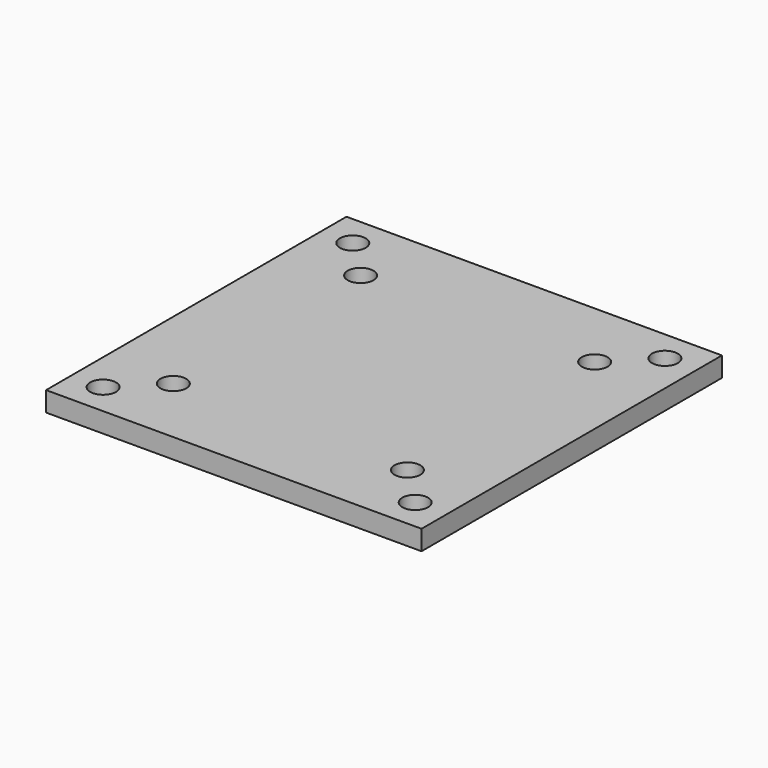
from build123d import *

# Parameters (mm, degrees)
F0_W     = 120.3
F0_H     = 120.3
F0_R     = 4.135455
F1_DEPTH = 6.35


with BuildPart() as f1:
    # F0 (on Top) → F1 (new body)
    with BuildSketch(Plane.XY):
        Rectangle(F0_W, F0_H)
        with Locations((-50, -50)):
            Circle(F0_R, mode=Mode.SUBTRACT)
        with Locations((-37.5, -37.5)):
            Circle(F0_R, mode=Mode.SUBTRACT)
        with Locations((50, -50)):
            Circle(F0_R, mode=Mode.SUBTRACT)
        with Locations((37.5, -37.5)):
            Circle(F0_R, mode=Mode.SUBTRACT)
        with Locations((-37.5, 37.5)):
            Circle(F0_R, mode=Mode.SUBTRACT)
        with Locations((-50, 50)):
            Circle(F0_R, mode=Mode.SUBTRACT)
        with Locations((37.5, 37.5)):
            Circle(F0_R, mode=Mode.SUBTRACT)
        with Locations((50, 50)):
            Circle(F0_R, mode=Mode.SUBTRACT)
    extrude(amount=F1_DEPTH)


solid = f1.part
